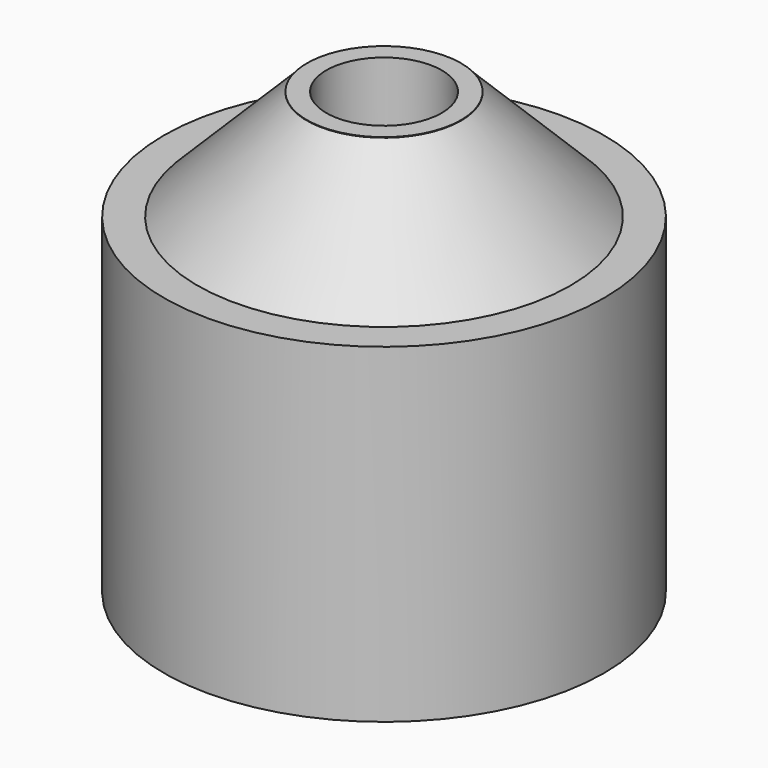
from build123d import *

# Parameters (mm, degrees)
SKETCH_R     = 4
PAD_DEPTH    = 6
SKETCH001_R  = 1.4
PAD001_DEPTH = 2
CHAMFER_SIZE = 1.99
SKETCH002_R  = 1.05
POCKET_DEPTH = 4


with BuildPart() as part:
    # Sketch → Pad (new body)
    with BuildSketch(Plane.XY):
        Circle(SKETCH_R)
    extrude(amount=PAD_DEPTH)

    # Sketch001 (on Face3 of Pad) → Pad001 (join)
    with BuildSketch(Plane.XY.offset(6)):
        Circle(SKETCH001_R)
    extrude(amount=PAD001_DEPTH)

    # Chamfer
    chamfer_edges = [part.edges().sort_by_distance(p)[0] for p in [
        (-1.4, 0, 6),
    ]]
    chamfer(chamfer_edges, length=CHAMFER_SIZE)

    # Sketch002 (on Face6 of Chamfer) → Pocket (cut)
    with BuildSketch(Plane.XY.offset(8)):
        Circle(SKETCH002_R)
    extrude(amount=-POCKET_DEPTH, mode=Mode.SUBTRACT)


solid = part.part
